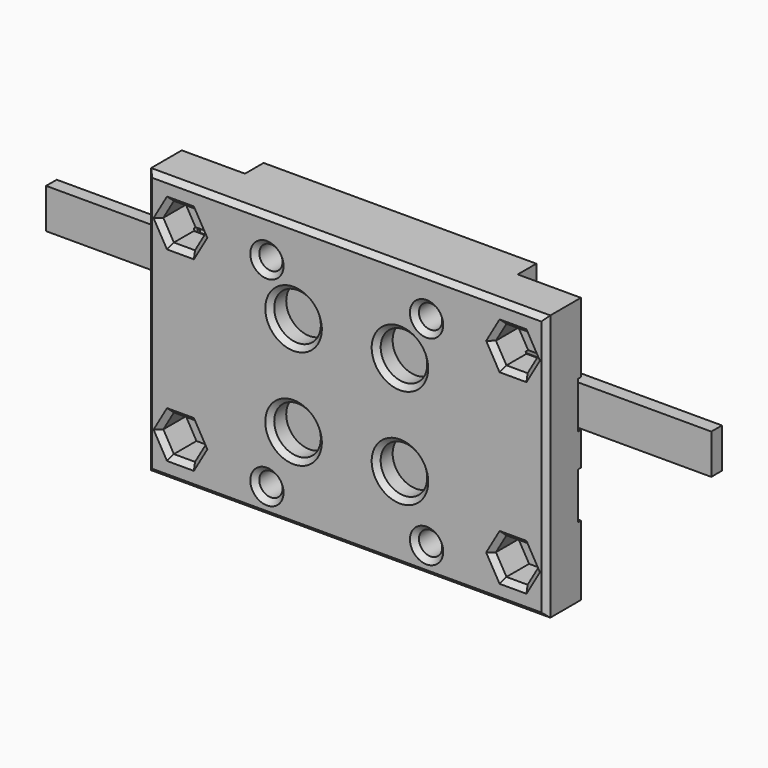
from build123d import *

# Parameters (mm, degrees)
PAD102_DEPTH                  = 19.5
BODY161_PITCH_ANGLE           = -90
BODY161_PLACEMENT_ANGLE       = 90
PAD_DEPTH                     = 30
SKETCH469_W                   = 41
SKETCH469_H                   = 21
POCKET_DEPTH                  = 8
SKETCH470_W                   = 1.75
SKETCH470_H                   = 12.7
SKETCH470_W_2                 = 3.5
SKETCH470_H_2                 = 3
SKETCH470_MIRRORED_2_W        = 1.75
SKETCH470_MIRRORED_2_H        = 12.7
SKETCH470_MIRRORED_2_W_2      = 3.5
SKETCH470_MIRRORED_2_H_2      = 3
POCKET001_DEPTH               = 10
SKETCH472_R                   = 1.75
POCKET002_DEPTH               = 0.001
POCKET002_DEPTH_BACK          = 16.001
POCKET003_DEPTH               = 3.5
POCKET003_MIRRORED002_2_DEPTH = 3.5
POCKET007_DEPTH               = 11.5
SKETCH481_W                   = 9.5
SKETCH481_H                   = 3.5
POCKET008_DEPTH               = 165.603198
POCKET008_DEPTH_BACK          = 165.603198
SKETCH482_R                   = 1.75
POCKET009_DEPTH               = 10.7
POCKET010_DEPTH               = 150.603198
POCKET010_MIRRORED006_2_DEPTH = 150.603198
SKETCH482_MIRRORED006_2_R     = 1.75
POCKET009_MIRRORED006_2_DEPTH = 10.7
CHAMFER_SIZE                  = 0.75
SKETCH475_W                   = 100
SKETCH475_H                   = 2
PAD103_DEPTH                  = 3
PAD104_DEPTH                  = 18
SKETCH477_W                   = 1
SKETCH477_H                   = 1
POCKET004_DEPTH               = 3.5
SKETCH478_W                   = 2
SKETCH478_H                   = 7
POCKET005_DEPTH               = 0.001
POCKET005_DEPTH_BACK          = 30.001
SKETCH479_R                   = 1.75
POCKET006_DEPTH               = 0.001
POCKET006_DEPTH_BACK          = 11.001
CHAMFER001_SIZE               = 0.75


with BuildPart() as mgn9h_carriage_x:
    # Sketch468 → Pad102 (new body, symmetric)
    with BuildSketch(Plane.XZ):
        Polygon((-10, 10), (-10, 2), (-5, 2), (-5, 6.5), (5, 6.5), (5, 2), (10, 2), (10, 10), align=None)
    extrude(amount=PAD102_DEPTH, both=True)


with BuildPart() as mgn9h_carriage_x_1:
    # Body161 pitch: moved
    add(mgn9h_carriage_x.part.rotate(Axis((0, 0, 0), (0, 1, 0)), BODY161_PITCH_ANGLE))


with BuildPart() as mgn9h_carriage_x_2:
    # Body161 placement: moved
    add(mgn9h_carriage_x_1.part.moved(Location((0, 2, 0))).rotate(Axis((0, 2, 0), (0, 0, 1)), BODY161_PLACEMENT_ANGLE))


with BuildPart() as x_carriage:
    # Sketch → Pad (new body, symmetric)
    with BuildSketch(Plane.YZ):
        Polygon((-6, 20), (-16, 20), (-16, -20), (-6, -20), (-6, -5.5), (-7, -5.5), (-7, 5.5), (-6, 5.5), align=None)
    extrude(amount=PAD_DEPTH, both=True)

    # Sketch469 → Pocket (cut)
    with BuildSketch(Plane.XZ):
        Rectangle(SKETCH469_W, SKETCH469_H)
    extrude(amount=POCKET_DEPTH, mode=Mode.SUBTRACT)

    # Sketch470 → Groove (revolve, cut)
    with BuildSketch(Plane(origin=(8, 0, 7.5), x_dir=(1, 0, 0), z_dir=(0, 0, 1))):
        with Locations((0.875, -6.35)):
            Rectangle(SKETCH470_W, SKETCH470_H)
        with Locations((1.75, -14.5)):
            Rectangle(SKETCH470_W_2, SKETCH470_H_2)
    groove = revolve(axis=Axis((8, 0, 7.5), (0, 1, 0)), mode=Mode.SUBTRACT)

    # Sketch470 Mirrored 2 → Groove Mirrored 2 (revolve, cut)
    with BuildSketch(Plane(origin=(8, 0, -7.5), x_dir=(1, 0, 0), z_dir=(0, 0, 1))):
        with Locations((0.875, -6.35)):
            Rectangle(SKETCH470_MIRRORED_2_W, SKETCH470_MIRRORED_2_H)
        with Locations((1.75, -14.5)):
            Rectangle(SKETCH470_MIRRORED_2_W_2, SKETCH470_MIRRORED_2_H_2)
    groove_mirrored_2 = revolve(axis=Axis((8, 0, -7.5), (0, 1, 0)), mode=Mode.SUBTRACT)

    # Mirrored001: Groove, Groove Mirrored 2 across YZ
    add(groove.mirror(Plane.YZ), mode=Mode.SUBTRACT)
    add(groove_mirrored_2.mirror(Plane.YZ), mode=Mode.SUBTRACT)

    # Sketch471 → Pocket001 (cut)
    with BuildSketch(Plane.XZ):
        Polygon((-10.412287, 11.25), (-8.824574, 14), (-10.412287, 16.75), (-13.587713, 16.75), (-15.175426, 14), (-13.587713, 11.25), align=None)
        Polygon((15.175426, 14), (13.587713, 16.75), (10.412287, 16.75), (8.824574, 14), (10.412287, 11.25), (13.587713, 11.25), align=None)
        Polygon((15.175426, -16), (13.587713, -13.25), (10.412287, -13.25), (8.824574, -16), (10.412287, -18.75), (13.587713, -18.75), align=None)
        Polygon((-8.824574, -16), (-10.412287, -13.25), (-13.587713, -13.25), (-15.175426, -16), (-13.587713, -18.75), (-10.412287, -18.75), align=None)
    extrude(amount=POCKET001_DEPTH, mode=Mode.SUBTRACT)

    # Sketch472 → Pocket002 (cut, two sides)
    with BuildSketch(Plane.XZ) as pocket002_sk:
        with Locations((-12, 14)):
            Circle(SKETCH472_R)
        with Locations((-12, -16)):
            Circle(SKETCH472_R)
        with Locations((12, -16)):
            Circle(SKETCH472_R)
        with Locations((12, 14)):
            Circle(SKETCH472_R)
    extrude(amount=-POCKET002_DEPTH, mode=Mode.SUBTRACT)
    extrude(pocket002_sk.sketch, amount=POCKET002_DEPTH_BACK, mode=Mode.SUBTRACT)

    # Sketch473 → Pocket003 (cut, symmetric)
    with BuildSketch(Plane.XY.offset(6)):
        Polygon((19.5, 0), (19.5, -12), (27, -12), (29, -10), (30, -10), (30, 0), align=None)
    pocket003 = extrude(amount=POCKET003_DEPTH, both=True, mode=Mode.SUBTRACT)

    # Sketch473 Mirrored002 2 → Pocket003 Mirrored002 2 (cut, symmetric)
    with BuildSketch(Plane(origin=(0, 0, 6), x_dir=(-1, 0, 0), z_dir=(0, 0, -1))):
        Polygon((19.5, 0), (19.5, -12), (27, -12), (29, -10), (30, -10), (30, 0), align=None)
    pocket003_mirrored002_2 = extrude(amount=-POCKET003_MIRRORED002_2_DEPTH, both=True, mode=Mode.SUBTRACT)

    # Mirrored003: Pocket003, Pocket003 Mirrored002 2 across XY
    add(pocket003.mirror(Plane.XY), mode=Mode.SUBTRACT)
    add(pocket003_mirrored002_2.mirror(Plane.XY), mode=Mode.SUBTRACT)

    # Sketch480 → Pocket007 (cut, symmetric)
    with BuildSketch(Plane.XY):
        Polygon((20.5, -6), (20.5, -11.5), (26.5, -11.5), (29, -9), (30.5, -9), (30.5, -6), align=None)
    pocket007 = extrude(amount=POCKET007_DEPTH, both=True, mode=Mode.SUBTRACT)

    # Sketch481 → Pocket008 (cut, two sides)
    with BuildSketch(Plane.XY) as pocket008_sk:
        with Locations((25.25, -7.75)):
            Rectangle(SKETCH481_W, SKETCH481_H)
    pocket008 = extrude(amount=-POCKET008_DEPTH, mode=Mode.SUBTRACT) + extrude(pocket008_sk.sketch, amount=POCKET008_DEPTH_BACK, mode=Mode.SUBTRACT)

    # Sketch482 → Pocket009 (cut)
    with BuildSketch(Plane.XZ):
        with Locations((25, 14)):
            Circle(SKETCH482_R)
    pocket009 = extrude(amount=POCKET009_DEPTH, mode=Mode.SUBTRACT)

    # Sketch483 → Pocket010 (cut, through all)
    with BuildSketch(Plane.XZ.offset(11)):
        Polygon((28.175426, 14), (26.587713, 16.75), (23.412287, 16.75), (21.824574, 14), (23.412287, 11.25), (26.587713, 11.25), align=None)
    pocket010 = extrude(amount=POCKET010_DEPTH, mode=Mode.SUBTRACT)

    # Mirrored005: Pocket008, Pocket007 across YZ
    add(pocket008.mirror(Plane.YZ), mode=Mode.SUBTRACT)
    add(pocket007.mirror(Plane.YZ), mode=Mode.SUBTRACT)

    # Sketch483 Mirrored006 2 → Pocket010 Mirrored006 2 (cut, through all)
    with BuildSketch(Plane(origin=(0, -11, 0), x_dir=(-1, 0, 0), z_dir=(0, 1, 0))):
        Polygon((28.175426, 14), (26.587713, 16.75), (23.412287, 16.75), (21.824574, 14), (23.412287, 11.25), (26.587713, 11.25), align=None)
    pocket010_mirrored006_2 = extrude(amount=-POCKET010_MIRRORED006_2_DEPTH, mode=Mode.SUBTRACT)

    # Sketch482 Mirrored006 2 → Pocket009 Mirrored006 2 (cut)
    with BuildSketch(Plane(origin=(0, 0, 0), x_dir=(-1, 0, 0), z_dir=(0, 1, 0))):
        with Locations((25, 14)):
            Circle(SKETCH482_MIRRORED006_2_R)
    pocket009_mirrored006_2 = extrude(amount=-POCKET009_MIRRORED006_2_DEPTH, mode=Mode.SUBTRACT)

    # Mirrored007: Pocket010, Pocket009, Pocket010 Mirrored006 2, Pocket009 Mirrored006 2 across XY
    add(pocket010.mirror(Plane.XY), mode=Mode.SUBTRACT)
    add(pocket009.mirror(Plane.XY), mode=Mode.SUBTRACT)
    add(pocket010_mirrored006_2.mirror(Plane.XY), mode=Mode.SUBTRACT)
    add(pocket009_mirrored006_2.mirror(Plane.XY), mode=Mode.SUBTRACT)

    # Chamfer
    chamfer_edges = [x_carriage.edges().sort_by_distance(p)[0] for p in [
        (0, -16, 20),
        (-30, -16, 0),
        (30, -16, 0),
        (0, -16, -20),
        (27.38157, -16, 12.625),
        (25, -16, 11.25),
        (27.38157, -16, 15.375),
        (22.61843, -16, 12.625),
        (25, -16, 16.75),
        (22.61843, -16, 15.375),
        (10.25, -16, 14),
        (4.5, -16, 7.5),
        (27.38157, -16, -15.375),
        (25, -16, -16.75),
        (22.61843, -16, -15.375),
        (22.61843, -16, -12.625),
        (25, -16, -11.25),
        (27.38157, -16, -12.625),
        (4.5, -16, -7.5),
        (10.25, -16, -16),
        (-13.75, -16, 14),
        (-4.5, -16, 7.5),
        (-27.38157, -16, 15.375),
        (-25, -16, 16.75),
        (-22.61843, -16, 15.375),
        (-22.61843, -16, 12.625),
        (-25, -16, 11.25),
        (-27.38157, -16, 12.625),
        (-4.5, -16, -7.5),
        (-13.75, -16, -16),
        (-27.38157, -16, -12.625),
        (-25, -16, -11.25),
        (-22.61843, -16, -12.625),
        (-22.61843, -16, -15.375),
        (-25, -16, -16.75),
        (-27.38157, -16, -15.375),
    ]]
    chamfer(chamfer_edges, length=CHAMFER_SIZE)


with BuildPart() as belt:
    # Sketch475 → Pad103 (new body, symmetric)
    with BuildSketch(Plane.XY.offset(6)):
        with Locations((0, -9)):
            Rectangle(SKETCH475_W, SKETCH475_H)
    extrude(amount=PAD103_DEPTH, both=True)


with BuildPart() as belt_clamp_right:
    # Sketch476 → Pad104 (new body, symmetric)
    with BuildSketch(Plane.XY):
        Polygon((28, -9), (30, -9), (30, -7), (21, -7), (21, -11), (26, -11), align=None)
    extrude(amount=PAD104_DEPTH, both=True)

    # Sketch477 → Pocket004 (cut, symmetric)
    with BuildSketch(Plane.XY.offset(6)):
        with Locations((21.5, -8.5)):
            Rectangle(SKETCH477_W, SKETCH477_H)
        with Locations((21.5, -10.5)):
            Rectangle(SKETCH477_W, SKETCH477_H)
        with Locations((23.5, -10.5)):
            Rectangle(SKETCH477_W, SKETCH477_H)
        Polygon((25, -10), (25, -11), (26.8, -11), (25.8, -10), align=None)
        Polygon((27.602082, -9.397918), (26.894975, -8.690812), (26.187868, -9.397918), (26.894975, -10.105025), align=None)
        with Locations((28.6, -8.5)):
            Rectangle(SKETCH477_W, SKETCH477_H)
    pocket004 = extrude(amount=POCKET004_DEPTH, both=True, mode=Mode.SUBTRACT)

    # Mirrored004: Pocket004 across XY
    add(pocket004.mirror(Plane.XY), mode=Mode.SUBTRACT)

    # Sketch478 → Pocket005 (cut, two sides)
    with BuildSketch(Plane.YZ) as pocket005_sk:
        with Locations((-10, 14.5)):
            Rectangle(SKETCH478_W, SKETCH478_H)
        with Locations((-10, -14.5)):
            Rectangle(SKETCH478_W, SKETCH478_H)
    extrude(amount=-POCKET005_DEPTH, mode=Mode.SUBTRACT)
    extrude(pocket005_sk.sketch, amount=POCKET005_DEPTH_BACK, mode=Mode.SUBTRACT)

    # Sketch479 → Pocket006 (cut, two sides)
    with BuildSketch(Plane.XZ) as pocket006_sk:
        with Locations((25, 14)):
            Circle(SKETCH479_R)
        with Locations((25, -14)):
            Circle(SKETCH479_R)
    extrude(amount=-POCKET006_DEPTH, mode=Mode.SUBTRACT)
    extrude(pocket006_sk.sketch, amount=POCKET006_DEPTH_BACK, mode=Mode.SUBTRACT)

    # Chamfer001
    chamfer001_edges = [belt_clamp_right.edges().sort_by_distance(p)[0] for p in [
        (30, -7, 0),
        (25.5, -7, -18),
        (25.5, -7, 18),
        (21, -7, 0),
        (23.25, -7, 14),
        (23.25, -7, -14),
    ]]
    chamfer(chamfer001_edges, length=CHAMFER001_SIZE)


with BuildPart() as belt_clamp_left:
    # Part__Mirroring: instance of belt-clamp-right
    add(belt_clamp_right.part.mirror(Plane(origin=(0, 0, 0), x_dir=(0, -1, 0), z_dir=(1, 0, 0))))


solid = Compound([mgn9h_carriage_x_2.part, x_carriage.part, belt.part, belt_clamp_left.part])
